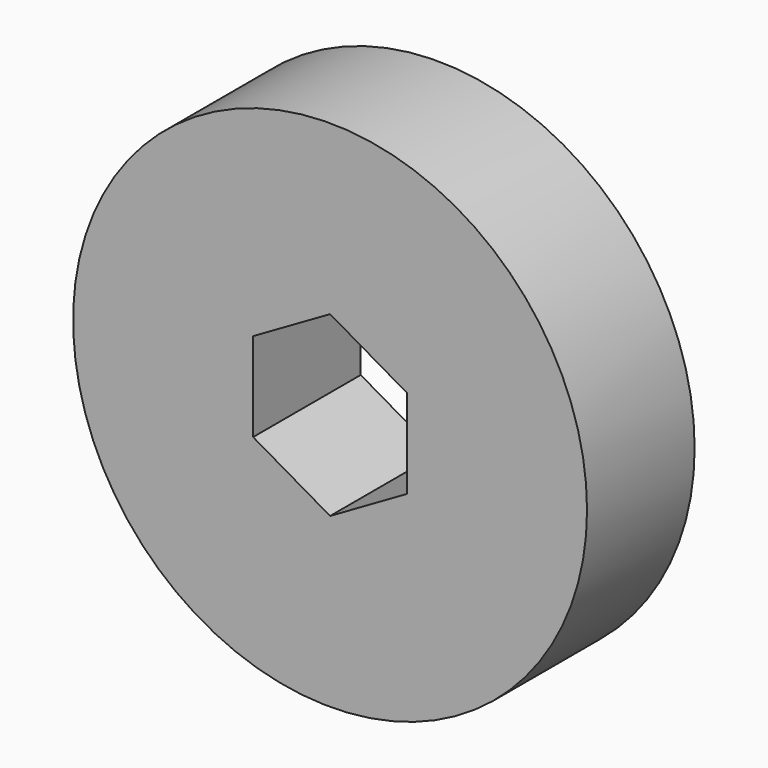
from build123d import *

# Parameters (mm, degrees)
F0_R     = 48.528488
F1_DEPTH = 12.7
F3_DEPTH = 12.7


with BuildPart() as f1:
    # F0 (on Front) → F1 (new body, symmetric)
    with BuildSketch(Plane.XZ):
        Circle(F0_R)
    extrude(amount=F1_DEPTH, both=True)

    # F2 (on Front) → F3 (cut, symmetric)
    with BuildSketch(Plane.XZ):
        Polygon((14.532579, 8.390388), (0, 16.780777), (-14.532579, 8.390388), (-14.532579, -8.390388), (0, -16.780777), (14.532579, -8.390388), align=None)
    extrude(amount=F3_DEPTH, both=True, mode=Mode.SUBTRACT)


solid = f1.part
